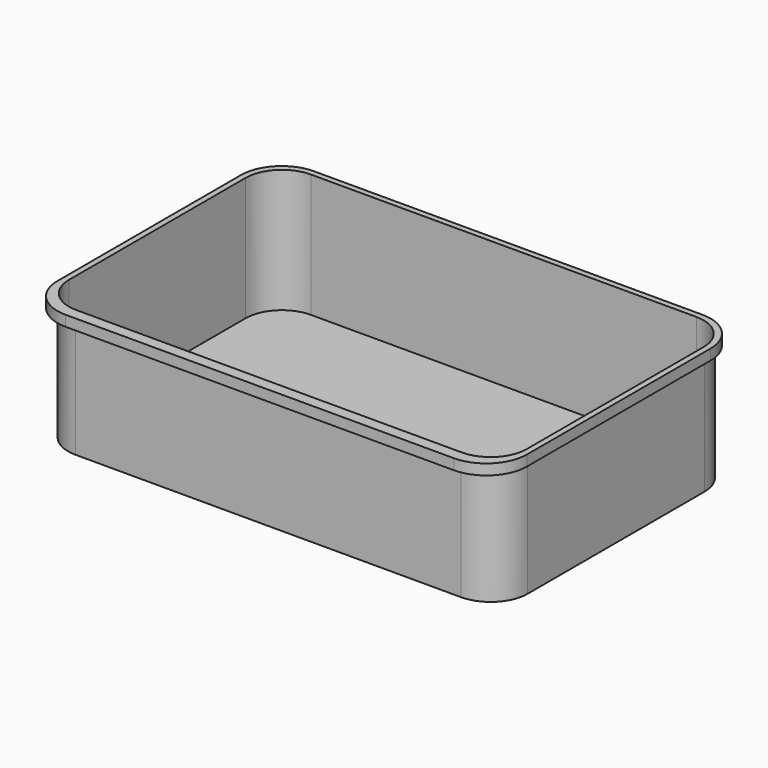
from build123d import *

# Parameters (mm, degrees)
F1_DEPTH = 72
F2_DEPTH = 6
F4_DEPTH = 70


with BuildPart() as f1:
    # F0 (on Top) → F1 (new body)
    with BuildSketch(Plane.XY):
        with BuildLine():
            Line((98.917353, 93.475991), (-119.482647, 93.475991))
            ThreePointArc((-119.482647, 93.475991), (-134.331889, 87.325233), (-140.482647, 72.475991))
            Line((-140.482647, 72.475991), (-140.482647, -52.724009))
            ThreePointArc((-140.482647, -52.724009), (-134.331889, -67.573252), (-119.482647, -73.724009))
            Line((-119.482647, -73.724009), (98.917353, -73.724009))
            ThreePointArc((98.917353, -73.724009), (113.766596, -67.573252), (119.917353, -52.724009))
            Line((119.917353, -52.724009), (119.917353, 72.475991))
            ThreePointArc((119.917353, 72.475991), (113.766596, 87.325233), (98.917353, 93.475991))
        make_face()
    extrude(amount=-F1_DEPTH)

    # F0 (on Top) → F2 (join)
    with BuildSketch(Plane.XY):
        with BuildLine():
            Line((99.717353, 96.275991), (-120.282647, 96.275991))
            ThreePointArc((-120.282647, 96.275991), (-136.546103, 89.539446), (-143.282647, 73.275991))
            Line((-143.282647, 73.275991), (-143.282647, -56.724009))
            ThreePointArc((-143.282647, -56.724009), (-136.546103, -72.987465), (-120.282647, -79.724009))
            Line((-120.282647, -79.724009), (99.717353, -79.724009))
            ThreePointArc((99.717353, -79.724009), (115.980809, -72.987465), (122.717353, -56.724009))
            Line((122.717353, -56.724009), (122.717353, 73.275991))
            ThreePointArc((122.717353, 73.275991), (115.980809, 89.539446), (99.717353, 96.275991))
        make_face()
        with BuildLine():
            ThreePointArc((-140.482647, 72.475991), (-134.331889, 87.325233), (-119.482647, 93.475991))
            Line((-119.482647, 93.475991), (98.917353, 93.475991))
            ThreePointArc((98.917353, 93.475991), (113.766596, 87.325233), (119.917353, 72.475991))
            Line((119.917353, 72.475991), (119.917353, -52.724009))
            ThreePointArc((119.917353, -52.724009), (113.766596, -67.573252), (98.917353, -73.724009))
            Line((98.917353, -73.724009), (-119.482647, -73.724009))
            ThreePointArc((-119.482647, -73.724009), (-134.331889, -67.573252), (-140.482647, -52.724009))
            Line((-140.482647, -52.724009), (-140.482647, 72.475991))
        make_face(mode=Mode.SUBTRACT)
    extrude(amount=-F2_DEPTH)

    # F3 (on face) → F4 (cut)
    with BuildSketch(Plane.XY):
        with BuildLine():
            Line((98.917353, 92.975991), (-119.482647, 92.975991))
            ThreePointArc((-119.482647, 92.975991), (-133.978336, 86.97168), (-139.982647, 72.475991))
            Line((-139.982647, 72.475991), (-139.982647, -52.724009))
            ThreePointArc((-139.982647, -52.724009), (-133.978336, -67.219699), (-119.482647, -73.224009))
            Line((-119.482647, -73.224009), (98.917353, -73.224009))
            ThreePointArc((98.917353, -73.224009), (113.413042, -67.219699), (119.417353, -52.724009))
            Line((119.417353, -52.724009), (119.417353, 72.475991))
            ThreePointArc((119.417353, 72.475991), (113.413042, 86.97168), (98.917353, 92.975991))
        make_face()
    extrude(amount=-F4_DEPTH, mode=Mode.SUBTRACT)


solid = f1.part
